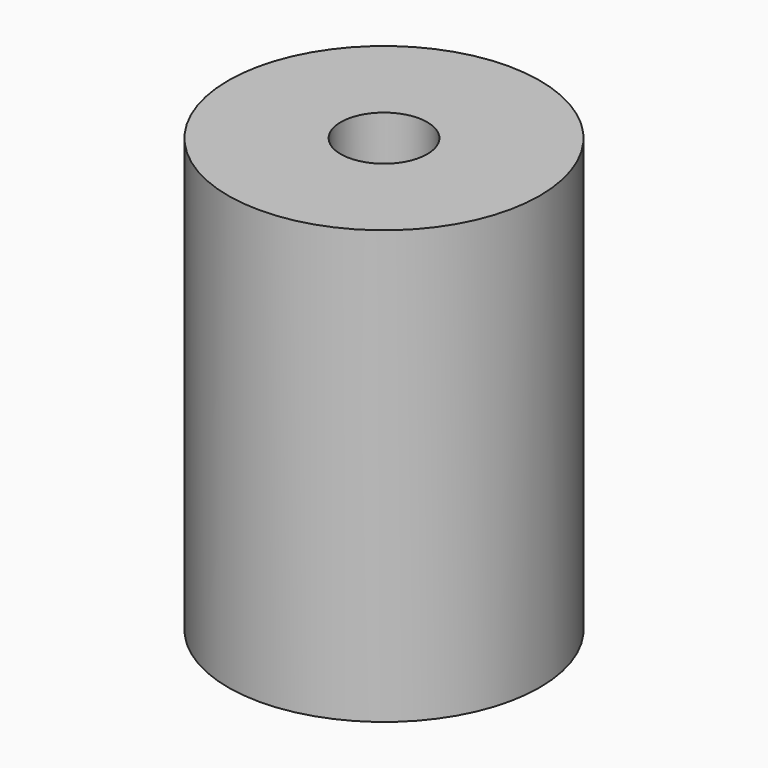
from build123d import *

# Parameters (mm, degrees)
SKETCH045_R     = 9
PAD027_DEPTH    = 25
SKETCH046_R     = 2.5
POCKET021_DEPTH = 6
SKETCH047_R     = 4
POCKET022_DEPTH = 6


with BuildPart() as part:
    # Sketch045 → Pad027 (new body)
    with BuildSketch(Plane.XY):
        Circle(SKETCH045_R)
    extrude(amount=PAD027_DEPTH)

    # Sketch046 (on Face3 of Pad027) → Pocket021 (cut)
    with BuildSketch(Plane.XY.offset(25)):
        Circle(SKETCH046_R)
    extrude(amount=-POCKET021_DEPTH, mode=Mode.SUBTRACT)

    # Sketch047 (on Face2 of Pocket021) → Pocket022 (cut)
    with BuildSketch(Plane(origin=(0, 0, 0), x_dir=(1, 0, 0), z_dir=(0, 0, -1))):
        Circle(SKETCH047_R)
    extrude(amount=-POCKET022_DEPTH, mode=Mode.SUBTRACT)


solid = part.part
